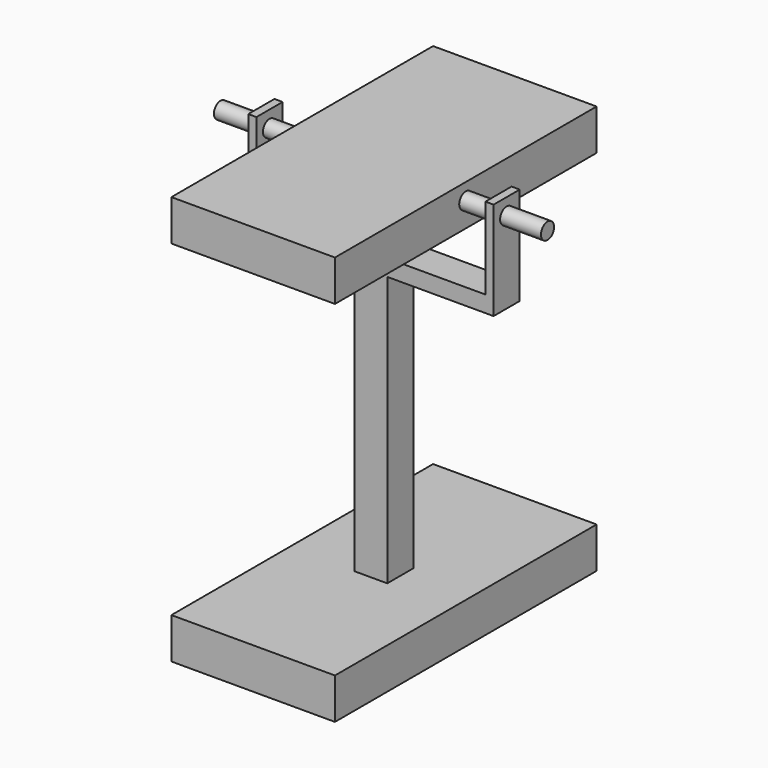
from build123d import *

# Parameters (mm, degrees)
CYLINDER_R        = 50
CYLINDER_DEPTH    = 2000
BOX003_W          = 50
BOX003_H          = 200
BOX003_DEPTH      = 500
BOX002_W          = 1500
BOX002_H          = 200
BOX002_DEPTH      = 100
BOX001_W          = 200
BOX001_H          = 200
BOX001_DEPTH      = 2000
BOX_W             = 1000
BOX_H             = 2000
BOX_DEPTH         = 250
BOX004_W          = 50
BOX004_H          = 200
BOX004_DEPTH      = 500
CYLINDER002_R     = 50
CYLINDER002_DEPTH = 2000
CYLINDER001_R     = 50
CYLINDER001_DEPTH = 2000
BOX005_W          = 1000
BOX005_H          = 2000
BOX005_DEPTH      = 250


with BuildPart() as cilindro:
    # Cylinder → Cylinder (new body)
    with BuildSketch(Plane(origin=(-500, 1000, 2400), x_dir=(0, 0, -1), z_dir=(1, 0, 0))):
        Circle(CYLINDER_R)
    extrude(amount=CYLINDER_DEPTH)


with BuildPart() as cubo003:
    # Box003 → Box003 (new body)
    with BuildSketch(Plane(origin=(-250, 900, 2000), x_dir=(1, 0, 0), z_dir=(0, 0, 1))):
        with Locations((25, 100)):
            Rectangle(BOX003_W, BOX003_H)
    extrude(amount=BOX003_DEPTH)


with BuildPart() as cubo002:
    # Box002 → Box002 (new body)
    with BuildSketch(Plane(origin=(-250, 900, 1900), x_dir=(1, 0, 0), z_dir=(0, 0, 1))):
        with Locations((750, 100)):
            Rectangle(BOX002_W, BOX002_H)
    extrude(amount=BOX002_DEPTH)


with BuildPart() as cubo001:
    # Box001 → Box001 (new body)
    with BuildSketch(Plane(origin=(400, 900, 0), x_dir=(1, 0, 0), z_dir=(0, 0, 1))):
        with Locations((100, 100)):
            Rectangle(BOX001_W, BOX001_H)
    extrude(amount=BOX001_DEPTH)


with BuildPart() as fusion001:
    # Box → Box (new body)
    with BuildSketch(Plane.XY):
        with Locations((500, 1000)):
            Rectangle(BOX_W, BOX_H)
    extrude(amount=BOX_DEPTH)

    # Fusion: union Cubo001
    add(cubo001.part)

    # Fusion001: union Cubo002
    add(cubo002.part)


with BuildPart() as cut:
    # Box004 → Box004 (new body)
    with BuildSketch(Plane(origin=(1200, 900, 2000), x_dir=(1, 0, 0), z_dir=(0, 0, 1))):
        with Locations((25, 100)):
            Rectangle(BOX004_W, BOX004_H)
    extrude(amount=BOX004_DEPTH)

    # Fusion002: union Cubo003, Fusion001
    add(cubo003.part)
    add(fusion001.part)

    # Cut: cut Cilindro
    add(cilindro.part, mode=Mode.SUBTRACT)


with BuildPart() as cilindro002:
    # Cylinder002 → Cylinder002 (new body)
    with BuildSketch(Plane(origin=(-500, 1000, 2400), x_dir=(0, 0, -1), z_dir=(1, 0, 0))):
        Circle(CYLINDER002_R)
    extrude(amount=CYLINDER002_DEPTH)


with BuildPart() as cilindro001:
    # Cylinder001 → Cylinder001 (new body)
    with BuildSketch(Plane(origin=(-500, 1000, 2400), x_dir=(0, 0, -1), z_dir=(1, 0, 0))):
        Circle(CYLINDER001_R)
    extrude(amount=CYLINDER001_DEPTH)


with BuildPart() as fusion003:
    # Box005 → Box005 (new body)
    with BuildSketch(Plane.XY.offset(2250)):
        with Locations((500, 1000)):
            Rectangle(BOX005_W, BOX005_H)
    extrude(amount=BOX005_DEPTH)

    # Cut001: cut Cilindro001
    add(cilindro001.part, mode=Mode.SUBTRACT)

    # Fusion003: union Cilindro002
    add(cilindro002.part)


solid = Compound([cut.part, fusion003.part])
